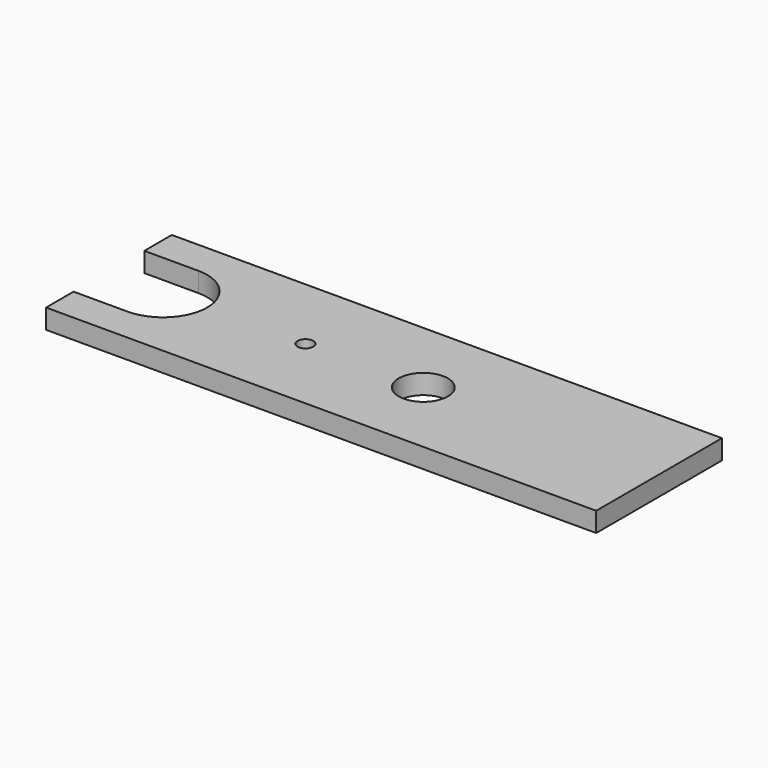
from build123d import *

# Parameters (mm, degrees)
F0_R     = 2.54
F0_R_2   = 7.9375
F1_DEPTH = 6.35


with BuildPart() as f1:
    # F0 (on Top) → F1 (new body)
    with BuildSketch(Plane.XY):
        with BuildLine():
            Line((88.9, -25.4), (88.9, 25.4))
            Line((88.9, 25.4), (-88.9, 25.4))
            Line((-88.9, 25.4), (-88.9, 14.2875))
            Line((-88.9, 14.2875), (-71.4375, 14.2875))
            ThreePointArc((-71.4375, 14.2875), (-57.15, 0), (-71.4375, -14.2875))
            Line((-71.4375, -14.2875), (-88.9, -14.2875))
            Line((-88.9, -14.2875), (-88.9, -25.4))
            Line((-88.9, -25.4), (88.9, -25.4))
        make_face()
        with Locations((-25.4, 0)):
            Circle(F0_R, mode=Mode.SUBTRACT)
        with Locations((12.7, 0)):
            Circle(F0_R_2, mode=Mode.SUBTRACT)
    extrude(amount=F1_DEPTH)


solid = f1.part
